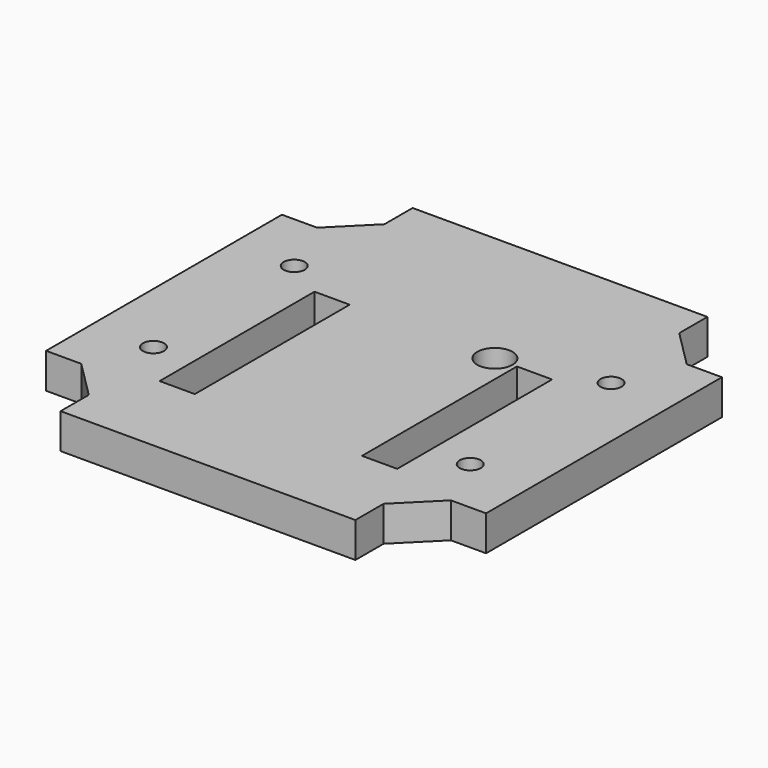
from build123d import *

# Parameters (mm, degrees)
SKETCH_R   = 1.2
SKETCH_R_2 = 2
SKETCH_W   = 4
SKETCH_H   = 22
PAD_DEPTH  = 4


with BuildPart() as part:
    # Sketch → Pad (new body)
    with BuildSketch(Plane.XY):
        Polygon((0, 0), (33.5, 0), (33.5, 4), (37.75, 8.25), (41.75, 8.25), (41.75, 41.75), (37.75, 41.75), (33.5, 46), (33.5, 50), (0, 50), (0, 46), (-4.25, 41.75), (-8.25, 41.75), (-8.25, 8.25), (-4.25, 8.25), (0, 4), align=None)
        with Locations((-1.25, 34.75)):
            Circle(SKETCH_R, mode=Mode.SUBTRACT)
        with Locations((-1.25, 14.75)):
            Circle(SKETCH_R, mode=Mode.SUBTRACT)
        with Locations((34.75, 14.75)):
            Circle(SKETCH_R, mode=Mode.SUBTRACT)
        with Locations((34.75, 34.75)):
            Circle(SKETCH_R, mode=Mode.SUBTRACT)
        with Locations((23.75, 32)):
            Circle(SKETCH_R_2, mode=Mode.SUBTRACT)
        with Locations((5.25, 21)):
            Rectangle(SKETCH_W, SKETCH_H, mode=Mode.SUBTRACT)
        with Locations((28.25, 21)):
            Rectangle(SKETCH_W, SKETCH_H, mode=Mode.SUBTRACT)
    extrude(amount=PAD_DEPTH)


solid = part.part
